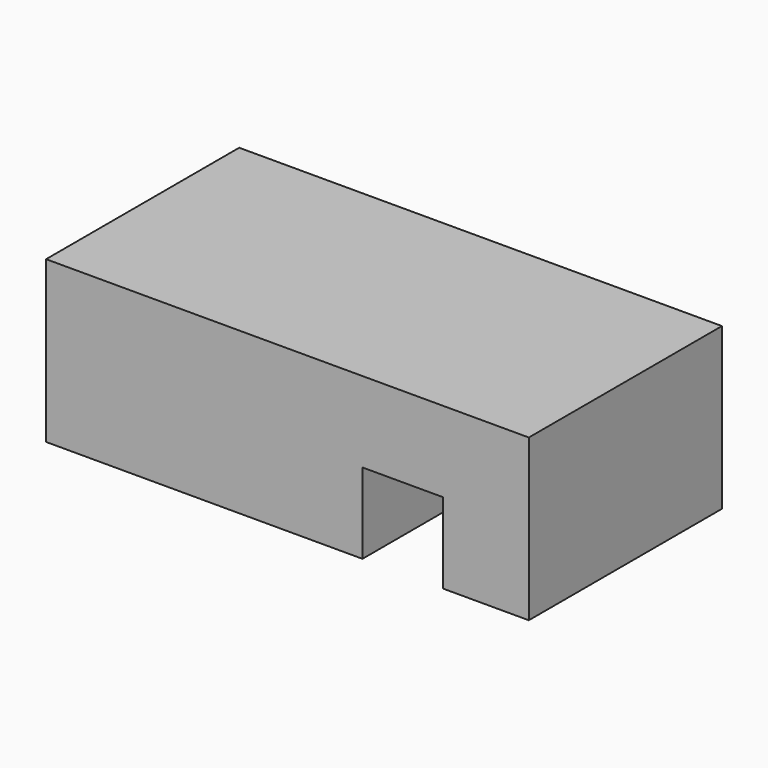
from build123d import *

# Parameters (mm, degrees)
F0_W     = 152.4
F0_H     = 50.8
F1_DEPTH = 76.2
F2_W     = 25.4
F2_H     = 76.231755
F3_DEPTH = 25.4


with BuildPart() as f1:
    # F0 (on Front) → F1 (new body)
    with BuildSketch(Plane.XZ):
        with Locations((76.2, 25.4)):
            Rectangle(F0_W, F0_H)
    extrude(amount=F1_DEPTH)

    # F2 (on Top) → F3 (cut)
    with BuildSketch(Plane.XY):
        with Locations((112.585501, -38.115877)):
            Rectangle(F2_W, F2_H)
    extrude(amount=F3_DEPTH, mode=Mode.SUBTRACT)


solid = f1.part
